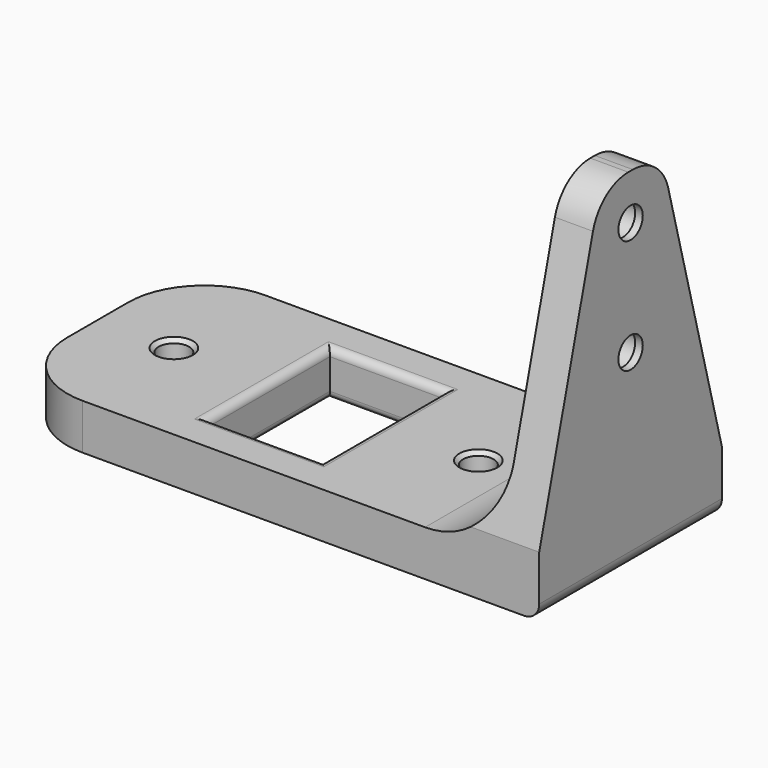
from build123d import *

# Parameters (mm, degrees)
SKETCH_W        = 70
SKETCH_H        = 30
SKETCH_R        = 1.75
SKETCH_W_2      = 15
SKETCH_H_2      = 20
PAD_DEPTH       = 6
FILLET_R        = 10
FILLET001_R     = 1
SKETCH001_W     = 5
SKETCH001_H     = 30
PAD001_DEPTH    = 40
CHAMFER_SIZE2   = 38
CHAMFER_SIZE    = 10
SKETCH002_R     = 2
POCKET_DEPTH    = 4
CHAMFER001_SIZE = 0.5
FILLET002_R     = 10
FILLET003_R     = 2
FILLET004_R     = 6
SKETCH003_R     = 2
POCKET001_DEPTH = 70.001
SKETCH004_R     = 2.25
POCKET002_DEPTH = 4
CHAMFER002_SIZE = 0.5


with BuildPart() as part:
    # Sketch → Pad (new body)
    with BuildSketch(Plane.XY):
        with Locations((25, 0)):
            Rectangle(SKETCH_W, SKETCH_H)
        Circle(SKETCH_R, mode=Mode.SUBTRACT)
        with Locations((40, 0)):
            Circle(SKETCH_R, mode=Mode.SUBTRACT)
        with Locations((20, 0)):
            Rectangle(SKETCH_W_2, SKETCH_H_2, mode=Mode.SUBTRACT)
    extrude(amount=PAD_DEPTH)

    # Fillet
    fillet_edges = [part.edges().sort_by_distance(p)[0] for p in [
        (-10, 15, 3),
        (-10, -15, 3),
    ]]
    fillet(fillet_edges, radius=FILLET_R)

    # Fillet001
    fillet001_edges = [part.edges().sort_by_distance(p)[0] for p in [
        (12.5, 0, 6),
        (12.5, 0, 0),
        (20, 10, 0),
        (20, 10, 6),
        (27.5, 0, 6),
        (20, -10, 6),
        (27.5, 0, 0),
        (20, -10, 0),
    ]]
    fillet(fillet001_edges, radius=FILLET001_R)

    # Sketch001 (on Face18 of Fillet001) → Pad001 (join)
    with BuildSketch(Plane.XY.offset(6)):
        with Locations((57.5, 0)):
            Rectangle(SKETCH001_W, SKETCH001_H)
    extrude(amount=PAD001_DEPTH)

    # Chamfer
    chamfer_edges = [part.edges().sort_by_distance(p)[0] for p in [
        (57.5, -15, 46),
        (57.5, 15, 46),
    ]]
    chamfer_side = part.faces().sort_by_distance((57.5, 0, 46))[0]
    chamfer(chamfer_edges, length=CHAMFER_SIZE, length2=CHAMFER_SIZE2, reference=chamfer_side)

    # Sketch002 (on Face4 of Chamfer) → Pocket (cut)
    with BuildSketch(Plane.XY.offset(6)):
        Circle(SKETCH002_R)
        with Locations((40, 0)):
            Circle(SKETCH002_R)
    extrude(amount=-POCKET_DEPTH, mode=Mode.SUBTRACT)

    # Chamfer001
    chamfer001_edges = [part.edges().sort_by_distance(p)[0] for p in [
        (-2, 0, 6),
        (38, 0, 6),
    ]]
    chamfer(chamfer001_edges, length=CHAMFER001_SIZE)

    # Fillet002
    fillet002_edges = [part.edges().sort_by_distance(p)[0] for p in [
        (55, 0, 6),
    ]]
    fillet(fillet002_edges, radius=FILLET002_R)

    # Fillet003
    fillet003_edges = [part.edges().sort_by_distance(p)[0] for p in [
        (60, 0, 0),
    ]]
    fillet(fillet003_edges, radius=FILLET003_R)

    # Fillet004
    fillet004_edges = [part.edges().sort_by_distance(p)[0] for p in [
        (57.5, -5, 46),
        (57.5, 5, 46),
    ]]
    fillet(fillet004_edges, radius=FILLET004_R)

    # Sketch003 (on Face2 of Fillet003) → Pocket001 (cut, through all)
    with BuildSketch(Plane.YZ.offset(60)):
        with Locations((0, 40)):
            Circle(SKETCH003_R)
        with Locations((0, 25)):
            Circle(SKETCH003_R)
    extrude(amount=-POCKET001_DEPTH, mode=Mode.SUBTRACT)

    # Sketch004 (on Face12 of Pocket001) → Pocket002 (cut)
    with BuildSketch(Plane(origin=(55, 0, 0), x_dir=(0, -1, 0), z_dir=(-1, 0, 0))):
        with Locations((0, 40)):
            Circle(SKETCH004_R)
        with Locations((0, 25)):
            Circle(SKETCH004_R)
    extrude(amount=-POCKET002_DEPTH, mode=Mode.SUBTRACT)

    # Chamfer002
    chamfer002_edges = [part.edges().sort_by_distance(p)[0] for p in [
        (55, 2.25, 40),
        (55, 2.25, 25),
    ]]
    chamfer(chamfer002_edges, length=CHAMFER002_SIZE)


solid = part.part
